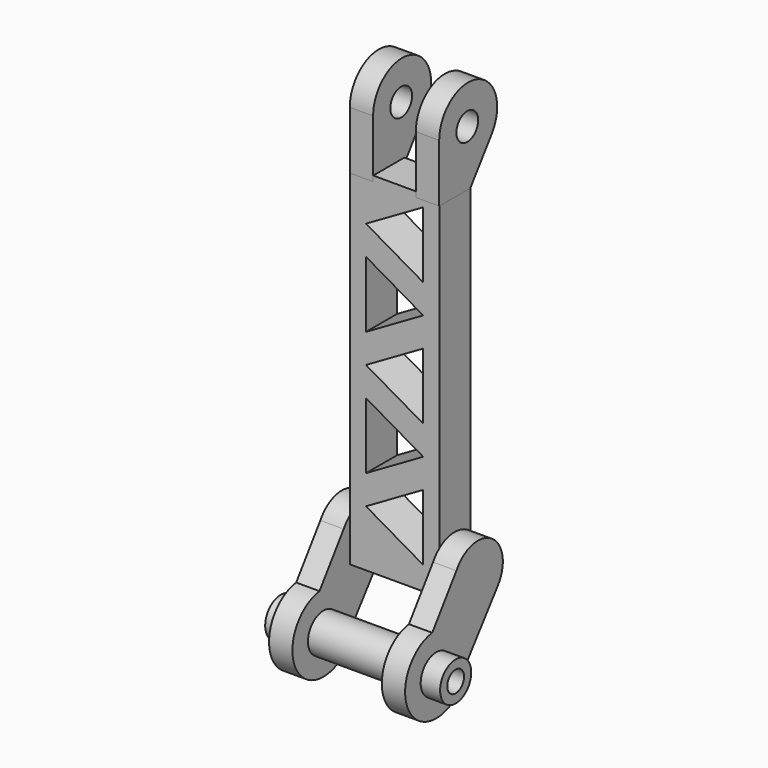
from build123d import *

# Parameters (mm, degrees)
SKETCH023_R       = 3.5
EXTRUDE022_DEPTH  = 6
SKETCH021_W       = 23
SKETCH021_H       = 90
EXTRUDE020_DEPTH  = 10
CYLINDER028_R     = 3
CYLINDER028_DEPTH = 25
CYLINDER027_R     = 7
CYLINDER027_DEPTH = 30
CYLINDER026_R     = 10
CYLINDER026_DEPTH = 6
EXTRUDE021_DEPTH  = 6
CYLINDER030_R     = 2.7
CYLINDER030_DEPTH = 50
CYLINDER029_R     = 5
CYLINDER029_DEPTH = 45


with BuildPart() as union_brazo_central004:
    # Sketch023 → Extrude022 (new body)
    with BuildSketch(Plane(origin=(0, 0, 0), x_dir=(0, -1, 0), z_dir=(-1, 0, 0))):
        with BuildLine():
            ThreePointArc((-10.966848, 145.524062), (-23.171274, 154.396494), (-27.829317, 140.044816))
            Line((-27.829317, 140.044816), (-20.975712, 130.624062))
            Line((-20.975712, 130.624062), (-10.975712, 130.624062))
            Line((-10.966848, 145.524062), (-10.975712, 130.624062))
        make_face()
        with Locations((-20.000471, 144.992747)):
            Circle(SKETCH023_R, mode=Mode.SUBTRACT)
    extrude(amount=EXTRUDE022_DEPTH)


with BuildPart() as union_brazo_central004_1:
    # Extrude022 placement: moved
    add(union_brazo_central004.part.moved(Location((62.99, 0, 0))))


with BuildPart() as union_brazo_central005:
    # Link021 base: copy of Union brazo central004
    add(union_brazo_central004_1.part)


with BuildPart() as union_brazo_central005_1:
    # Link021 placement: moved
    add(union_brazo_central005.part.moved(Location((17.001, 0, 0))))


with BuildPart() as obj1:
    # Sketch021 → Extrude020 (new body)
    with BuildSketch(Plane.XZ):
        with Locations((68.040845, 88.110787)):
            Rectangle(SKETCH021_W, SKETCH021_H)
        Polygon((60.680845, 57.610787), (75.403277, 66.110787), (75.403277, 49.110787), align=None, mode=Mode.SUBTRACT)
        Polygon((60.678413, 65.110787), (60.678413, 82.110787), (75.400845, 73.610787), align=None, mode=Mode.SUBTRACT)
        Polygon((60.680845, 89.610787), (75.403277, 98.110787), (75.403277, 81.110787), align=None, mode=Mode.SUBTRACT)
        Polygon((60.678413, 97.110787), (60.678413, 114.110787), (75.400845, 105.610787), align=None, mode=Mode.SUBTRACT)
        Polygon((60.680845, 121.610787), (75.403277, 130.110787), (75.403277, 113.110787), align=None, mode=Mode.SUBTRACT)
    extrude(amount=EXTRUDE020_DEPTH)


with BuildPart() as obj1_1:
    # Extrude020 placement: moved
    add(obj1.part.moved(Location((0.45, 21, -1.11))))


with BuildPart() as rotor011:
    # Cylinder028 → Cylinder028 (new body)
    with BuildSketch(Plane(origin=(40, 2.5, 30), x_dir=(0, 0, -1), z_dir=(1, 0, 0))):
        Circle(CYLINDER028_R)
    extrude(amount=CYLINDER028_DEPTH)


with BuildPart() as rotor010:
    # Cylinder027 → Cylinder027 (new body)
    with BuildSketch(Plane(origin=(63, 2.5, 30), x_dir=(0, 0, -1), z_dir=(1, 0, 0))):
        Circle(CYLINDER027_R)
    extrude(amount=CYLINDER027_DEPTH)


with BuildPart() as obj2:
    # Cylinder026 → Cylinder026 (new body)
    with BuildSketch(Plane(origin=(54, 2.5, 30), x_dir=(0, 0, -1), z_dir=(1, 0, 0))):
        Circle(CYLINDER026_R)
    extrude(amount=CYLINDER026_DEPTH)

    # Cut013: cut Rotor010
    add(rotor010.part, mode=Mode.SUBTRACT)

    # Cut014: cut Rotor011
    add(rotor011.part, mode=Mode.SUBTRACT)


with BuildPart() as union_motor_centro002:
    # Sketch022 → Extrude021 (new body)
    with BuildSketch(Plane.YZ):
        with BuildLine():
            ThreePointArc((22.654639, 41.99706), (20.679007, 53.483206), (9.335322, 50.808228))
            Line((9.335322, 50.808228), (1.552816, 39.899855))
            ThreePointArc((12.665635, 28.738862), (9.310536, 36.511168), (1.552816, 39.899855))
            Line((22.654639, 41.99706), (12.665635, 28.738862))
        make_face()
    extrude(amount=EXTRUDE021_DEPTH)


with BuildPart() as union_motor_centro002_1:
    # Extrude021 placement: moved
    add(union_motor_centro002.part.moved(Location((54, -0.35, 0))))

    # Fusion024: union obj2
    add(obj2.part)


with BuildPart() as union_motor_centro003:
    # Link020 base: copy of Union motor centro002
    add(union_motor_centro002_1.part)


with BuildPart() as union_motor_centro003_1:
    # Link020 placement: moved
    add(union_motor_centro003.part.moved(Location((28.999998, -3e-06, 0))))


with BuildPart() as hueco_rotor001:
    # Cylinder030 → Cylinder030 (new body)
    with BuildSketch(Plane(origin=(37, 2.5, 30), x_dir=(0, 0, -1), z_dir=(1, 0, 0))):
        Circle(CYLINDER030_R)
    extrude(amount=CYLINDER030_DEPTH)


with BuildPart() as brazo_central_v3:
    # Cylinder029 → Cylinder029 (new body)
    with BuildSketch(Plane(origin=(40, 2.5, 30), x_dir=(0, 0, -1), z_dir=(1, 0, 0))):
        Circle(CYLINDER029_R)
    extrude(amount=CYLINDER029_DEPTH)

    # Cut015: cut hueco rotor001
    add(hueco_rotor001.part, mode=Mode.SUBTRACT)


with BuildPart() as brazo_central_v3_1:
    # Cut015 placement: moved
    add(brazo_central_v3.part.moved(Location((9, 0, 0))))

    # Fusion025: union Union motor centro003, Union motor centro002
    add(union_motor_centro003_1.part)
    add(union_motor_centro002_1.part)


with BuildPart() as brazo_central_v3_2:
    # Fusion025 placement: moved
    add(brazo_central_v3_1.part.moved(Location((-3, 0, 0))))

    # Fusion026: union Union brazo central004, Union brazo central005, obj1
    add(union_brazo_central004_1.part)
    add(union_brazo_central005_1.part)
    add(obj1_1.part)


solid = brazo_central_v3_2.part
